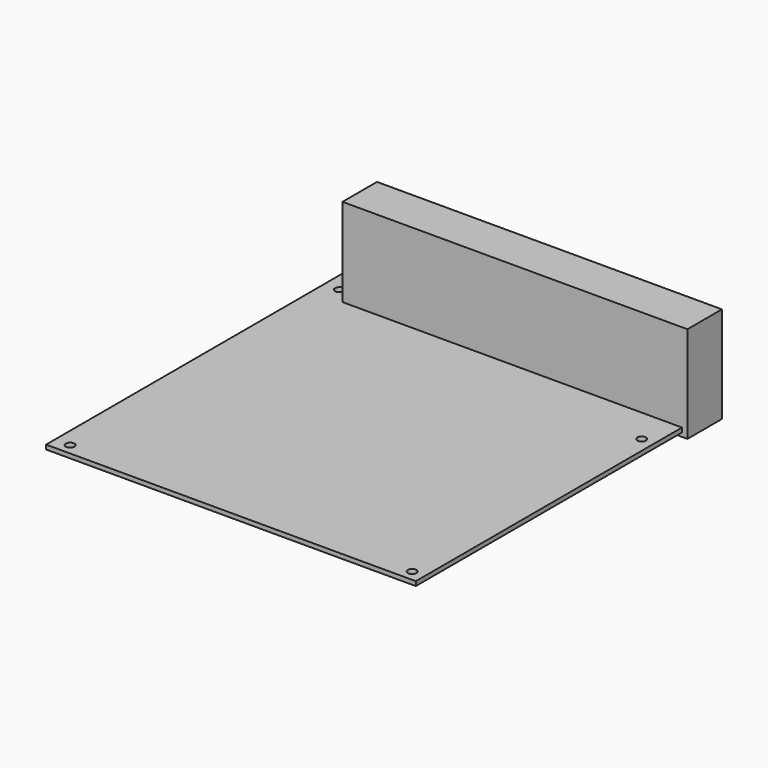
from build123d import *

# Parameters (mm, degrees)
F0_R     = 1.98
F0_W     = 156.2984559469
F0_H     = 16.9940508366
F1_DEPTH = 2
F2_DEPTH = 3.81
F3_DEPTH = 44.45


with BuildPart() as f1:
    # F0 (on Top) → F1 (new body)
    with BuildSketch(Plane.XY):
        Polygon((-6.99, 165.1), (-6.99, -5.08), (163.2, -5.08), (163.2, 148.1059491634), (6.9015440531, 148.1059491634), (6.9015440531, 165.1), align=None)
        Circle(F0_R, mode=Mode.SUBTRACT)
        with Locations((157.48, 0)):
            Circle(F0_R, mode=Mode.SUBTRACT)
        with Locations((0, 154.94)):
            Circle(F0_R, mode=Mode.SUBTRACT)
        with Locations((157.48, 132.08)):
            Circle(F0_R, mode=Mode.SUBTRACT)
        with Locations((85.0507720266, 156.6029745817)):
            Rectangle(F0_W, F0_H)
    extrude(amount=-F1_DEPTH)

    # F0 (on Top) → F2 (join)
    with BuildSketch(Plane.XY):
        with Locations((85.0507720266, 156.6029745817)):
            Rectangle(F0_W, F0_H)
        Polygon((163.2, 165.1), (163.2, 148.1059491634), (165.6916588545, 148.1059491634), (165.6916588545, 167.9547131062), (6.9015440531, 167.9547131062), (6.9015440531, 165.1), align=None)
    extrude(amount=-F2_DEPTH)

    # F3 (add): a face of the model
    f3_faces = [f1.faces().sort_by_distance(p)[0] for p in [
        (86.2966014538, 158.0303311348, -3.81),
    ]]
    extrude(f3_faces, amount=-F3_DEPTH)


solid = f1.part
